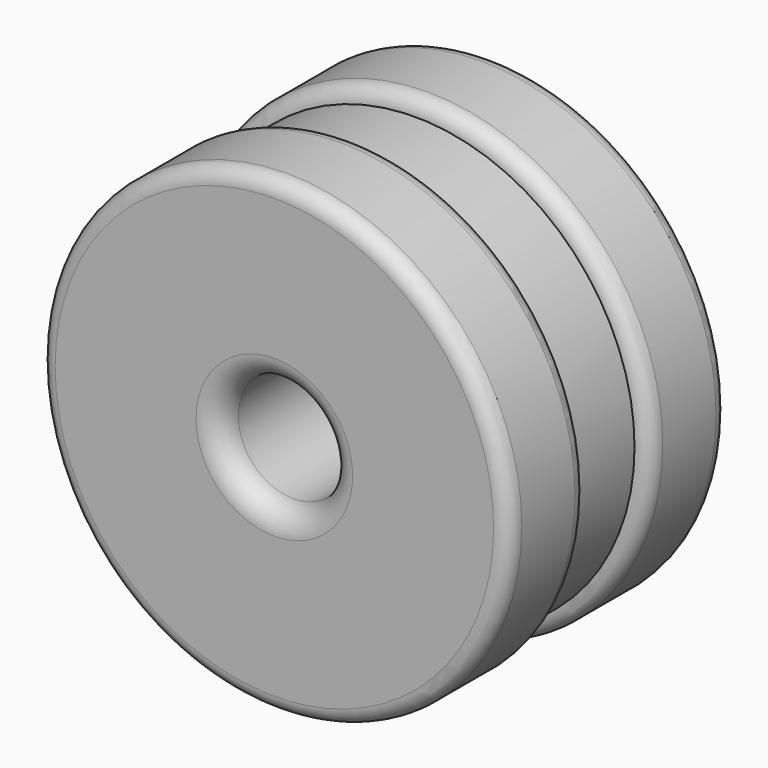
from build123d import *

# Parameters (mm, degrees)
F2_R     = 2
F3_R     = 3
F4_R     = 28
F4_R_2   = 27.5
F4_R_3   = 21.75
F4_R_4   = 21.25
F5_DEPTH = 10


with BuildPart() as f1:
    # F0 (on Top) → F1 (revolve)
    with BuildSketch(Plane.XY):
        Polygon((-30, 0), (-7, 0), (-7, 35), (-30, 35), (-30, 22.5), (-15, 22.5), (-15, 12.5), (-30, 12.5), align=None)
    revolve(axis=Axis((0, 17.5, 0), (0, 1, 0)))

    # F2
    f2_edges = [f1.edges().sort_by_distance(p)[0] for p in [
        (30, 22.5, 0),
        (30, 12.5, 0),
        (30, 35, 0),
        (30, 0, 0),
    ]]
    fillet(f2_edges, radius=F2_R)

    # F3
    f3_edges = [f1.edges().sort_by_distance(p)[0] for p in [
        (7, 0, 0),
        (7, 35, 0),
    ]]
    fillet(f3_edges, radius=F3_R)

    # F4 (on face) → F5 (join, through all)
    with BuildSketch(Plane.XZ.offset(-22.5)):
        Circle(F4_R)
        Circle(F4_R_2, mode=Mode.SUBTRACT)
        Circle(F4_R_3)
        Circle(F4_R_4, mode=Mode.SUBTRACT)
    extrude(amount=F5_DEPTH)


solid = f1.part
